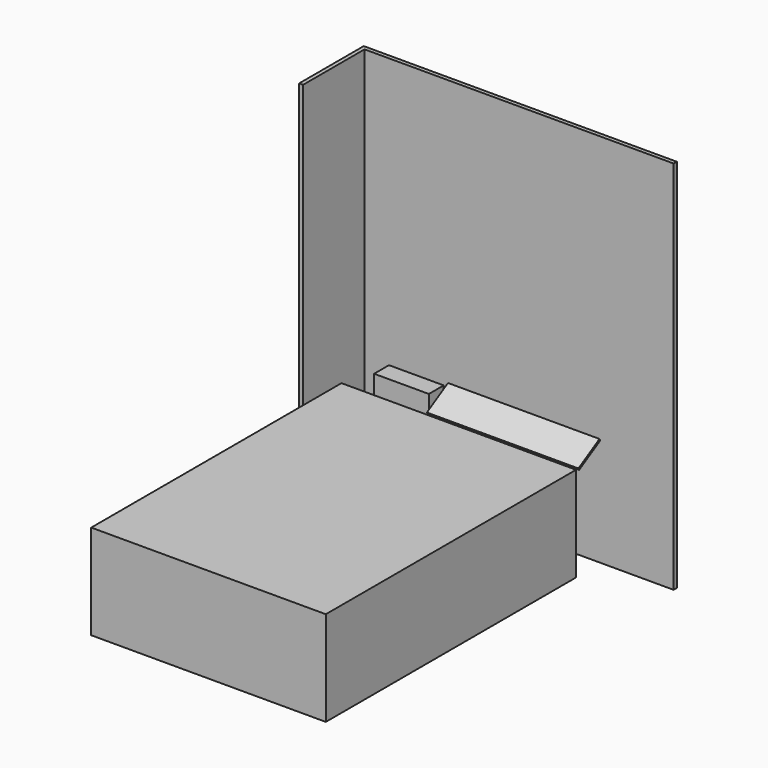
from build123d import *

# Parameters (mm, degrees)
F0_W     = 355.6
F0_H     = 120.65
F1_DEPTH = 704.85
F3_DEPTH = 2438.4
F4_W     = 1524
F4_H     = 2032
F5_DEPTH = 615.95
F7_START = 12.7
F7_DEPTH = 984.25


with BuildPart() as f1:
    # F0 (on Top) → F1 (new body)
    with BuildSketch(Plane.XY):
        with Locations((-177.8, 111.125)):
            Rectangle(F0_W, F0_H)
    extrude(amount=F1_DEPTH)


with BuildPart() as f3:
    # F2 (on Top) → F3 (new body)
    with BuildSketch(Plane.XY):
        Polygon((-565.15, -295.4117953777), (-539.75, -295.4117953777), (-539.75, 203.2), (1468.3241844177, 203.2), (1468.3241844177, 228.6), (-565.15, 228.6), align=None)
    extrude(amount=F3_DEPTH)


with BuildPart() as f5:
    # F4 (on Top) → F5 (new body)
    with BuildSketch(Plane.XY):
        with Locations((234.95, -1016)):
            Rectangle(F4_W, F4_H)
    extrude(amount=F5_DEPTH)


with BuildPart() as f7:
    # F6 (on Right) → F7 (new body)
    with BuildSketch(Plane.YZ.offset(F7_START)):
        Polygon((190.5, 714.9367036526), (19.05, 615.95), (25.4, 604.9514773719), (196.85, 703.9381810245), align=None)
    extrude(amount=F7_DEPTH)


solid = Compound([f1.part, f3.part, f5.part, f7.part])
